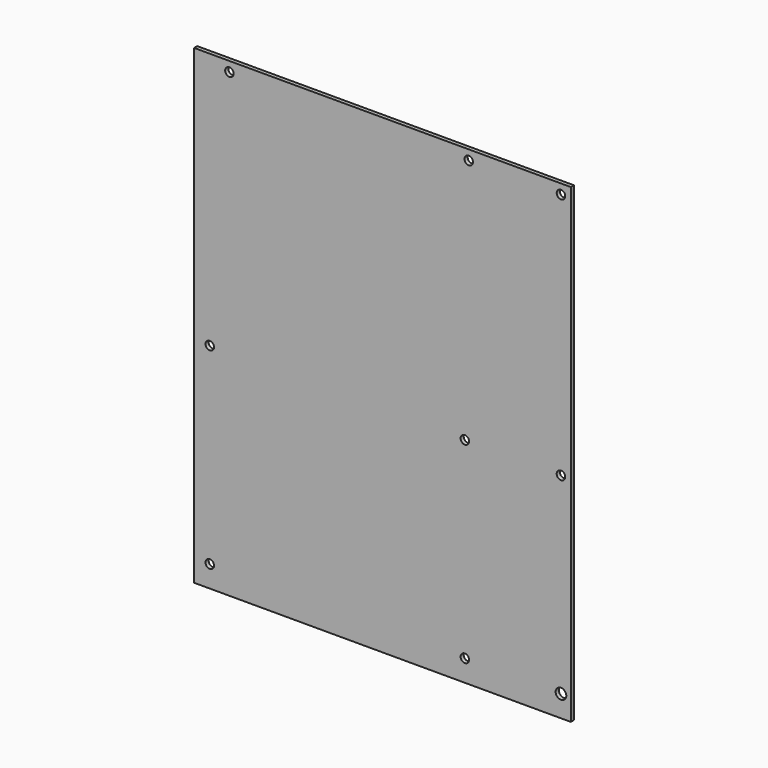
from build123d import *

# Parameters (mm, degrees)
F0_W     = 243.84
F0_H     = 304.8
F1_DEPTH = 2.54
F2_R     = 2.75
F2_R_2   = 2.7559
F2_R_3   = 3.4417
F3_DEPTH = 111.506


with BuildPart() as f1:
    # F0 (on Front) → F1 (new body)
    with BuildSketch(Plane.XZ):
        with Locations((121.92, 152.4)):
            Rectangle(F0_W, F0_H)
    extrude(amount=F1_DEPTH)

    # F2 (on face) → F3 (cut)
    with BuildSketch(Plane.XZ.offset(2.54)):
        with Locations((22.86, 298.45)):
            Circle(F2_R)
        with Locations((177.8, 298.45)):
            Circle(F2_R_2)
        with Locations((237.49, 298.45)):
            Circle(F2_R_2)
        with Locations((237.49, 138.43)):
            Circle(F2_R_2)
        with Locations((175.26, 138.43)):
            Circle(F2_R_2)
        with Locations((10.16, 138.43)):
            Circle(F2_R_2)
        with Locations((10.16, 13.97)):
            Circle(F2_R_2)
        with Locations((175.26, 13.97)):
            Circle(F2_R_2)
        with Locations((237.49, 13.97)):
            Circle(F2_R_3)
    extrude(amount=-F3_DEPTH, mode=Mode.SUBTRACT)


solid = f1.part
